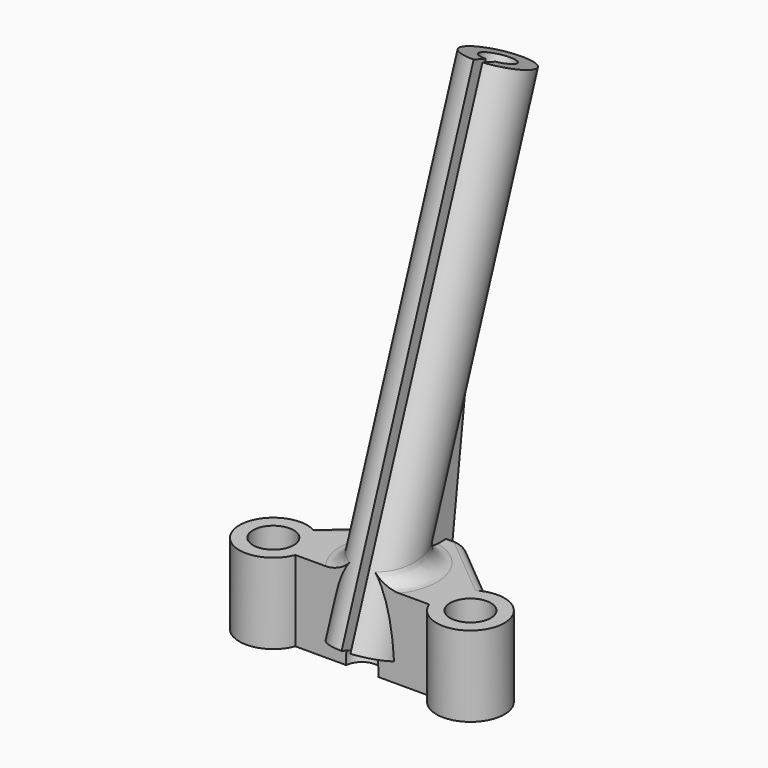
from build123d import *

# Parameters (mm, degrees)
PAD001_DEPTH                = 1
BOX_W                       = 1
BOX_H                       = 4
BOX_DEPTH                   = 62
BOX_PLACEMENT_ANGLE         = 340
CYLINDER_R                  = 2
CYLINDER_DEPTH              = 67
CYLINDER_PLACEMENT_ANGLE    = 340
CYLINDER001_R               = 4
CYLINDER001_DEPTH           = 60
CYLINDER001_PLACEMENT_ANGLE = 20
SKETCH_R                    = 2.527902
PAD_DEPTH                   = 10
FILLET_R                    = 2
FILLET001_R                 = 2
FILLET003_R                 = 1


with BuildPart() as body001:
    # Sketch001 → Pad001 (new body, symmetric)
    with BuildSketch(Plane.YZ):
        Polygon((11.126045, 25.12734), (5.15667, 9.780665), (10.086619, 0), (14.214679, 32.616486), align=None)
    extrude(amount=PAD001_DEPTH, both=True)


with BuildPart() as box:
    # Box → Box (new body)
    with BuildSketch(Plane.XY):
        with Locations((0.5, 2)):
            Rectangle(BOX_W, BOX_H)
    extrude(amount=BOX_DEPTH)


with BuildPart() as box_1:
    # Box placement: moved
    add(box.part.moved(Location((0, -5.296136, 2.991813))).rotate(Axis((0, -5.296136, 2.991813), (1, 0, 0)), BOX_PLACEMENT_ANGLE))


with BuildPart() as cylinder:
    # Cylinder → Cylinder (new body)
    with BuildSketch(Plane.XY):
        Circle(CYLINDER_R)
    extrude(amount=CYLINDER_DEPTH)


with BuildPart() as cylinder_1:
    # Cylinder placement: moved
    add(cylinder.part.moved(Location((0, -2.318081, -1.61877))).rotate(Axis((0, -2.318081, -1.61877), (1, 0, 0)), CYLINDER_PLACEMENT_ANGLE))


with BuildPart() as cylinder001:
    # Cylinder001 → Cylinder001 (new body)
    with BuildSketch(Plane.XY):
        Circle(CYLINDER001_R)
    extrude(amount=CYLINDER001_DEPTH)


with BuildPart() as cylinder001_1:
    # Cylinder001 placement: moved
    add(cylinder001.part.moved(Location((0, -0.95, 2.14))).rotate(Axis((0, -0.95, 2.14), (-1, 0, 0)), CYLINDER001_PLACEMENT_ANGLE))


with BuildPart() as fillet003:
    # Sketch → Pad (new body)
    with BuildSketch(Plane.XY):
        with BuildLine():
            ThreePointArc((-11.024148, 4.03498), (-16.038919, -1.856194), (-8.310522, -1.501592))
            Line((-8.310522, -1.501592), (0, -1.501592))
            Line((8.310522, -1.501592), (0, -1.501592))
            ThreePointArc((8.310522, -1.501592), (16.038919, -1.856194), (11.024148, 4.03498))
            Line((11.024148, 4.03498), (3.534046, 10.276075))
            Line((3.534046, 10.276075), (0, 10.276075))
            Line((-3.534046, 10.276075), (0, 10.276075))
            Line((-11.024148, 4.03498), (-3.534046, 10.276075))
        make_face()
        with Locations((-12.251753, 0)):
            Circle(SKETCH_R, mode=Mode.SUBTRACT)
        with Locations((12.251753, 0)):
            Circle(SKETCH_R, mode=Mode.SUBTRACT)
    extrude(amount=PAD_DEPTH)

    # Fusion: union Cylinder001
    add(cylinder001_1.part)

    # Cut: cut Cylinder
    add(cylinder_1.part, mode=Mode.SUBTRACT)

    # Cut001: cut Box
    add(box_1.part, mode=Mode.SUBTRACT)

    # Fillet
    fillet_edges = [fillet003.edges().sort_by_distance(p)[0] for p in [
        (-1.866147, 5.675875, 10),
    ]]
    fillet(fillet_edges, radius=FILLET_R)

    # Fusion001: union Body001
    add(body001.part)

    # Fillet001
    fillet001_edges = [fillet003.edges().sort_by_distance(p)[0] for p in [
        (-3.534046, 10.276075, 5),
    ]]
    fillet(fillet001_edges, radius=FILLET001_R)

    # Fillet003
    fillet003_edges = [fillet003.edges().sort_by_distance(p)[0] for p in [
        (-7.557221, 6.923782, 10),
        (7.279097, 7.155528, 10),
    ]]
    fillet(fillet003_edges, radius=FILLET003_R)


solid = fillet003.part
